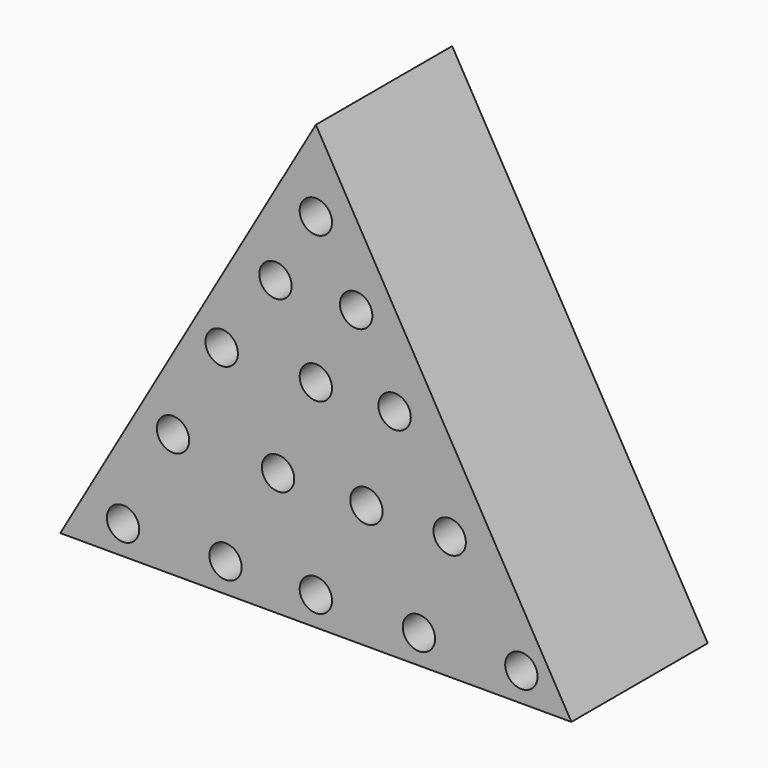
from build123d import *

# Parameters (mm, degrees)
F1_DEPTH = 25.4
F2_R     = 2.413
F3_DEPTH = 12.7
F4_R     = 2.413
F5_DEPTH = 12.7


with BuildPart() as f1:
    # F0 (on Front) → F1 (new body)
    with BuildSketch(Plane.XZ):
        Polygon((-35.131108, 65.991136), (-73.231108, 0), (2.968892, 0), align=None)
    extrude(amount=F1_DEPTH)

    # F2 (on face) → F3 (cut)
    with BuildSketch(Plane.XZ.offset(25.4)):
        with Locations((-63.874334, 4.29648)):
            Circle(F2_R)
        with Locations((-48.597958, 4.29648)):
            Circle(F2_R)
        with Locations((-35.131108, 4.29648)):
            Circle(F2_R)
        with Locations((-19.763807, 4.29648)):
            Circle(F2_R)
        with Locations((-4.487435, 4.29648)):
            Circle(F2_R)
    extrude(amount=-F3_DEPTH, mode=Mode.SUBTRACT)

    # F4 (on face) → F5 (cut)
    with BuildSketch(Plane.XZ.offset(25.4)):
        with Locations((-56.427099, 18.427124)):
            Circle(F4_R)
        with Locations((-40.768821, 18.427124)):
            Circle(F4_R)
        with Locations((-27.592948, 18.427124)):
            Circle(F4_R)
        with Locations((-15.180895, 18.427124)):
            Circle(F4_R)
        with Locations((-23.391945, 32.175861)):
            Circle(F4_R)
        with Locations((-35.131108, 32.175861)):
            Circle(F4_R)
        with Locations((-49.170826, 32.175861)):
            Circle(F4_R)
        with Locations((-41.15073, 43.633141)):
            Circle(F4_R)
        with Locations((-29.120585, 43.633141)):
            Circle(F4_R)
        with Locations((-35.131108, 53.944688)):
            Circle(F4_R)
    extrude(amount=-F5_DEPTH, mode=Mode.SUBTRACT)


solid = f1.part
